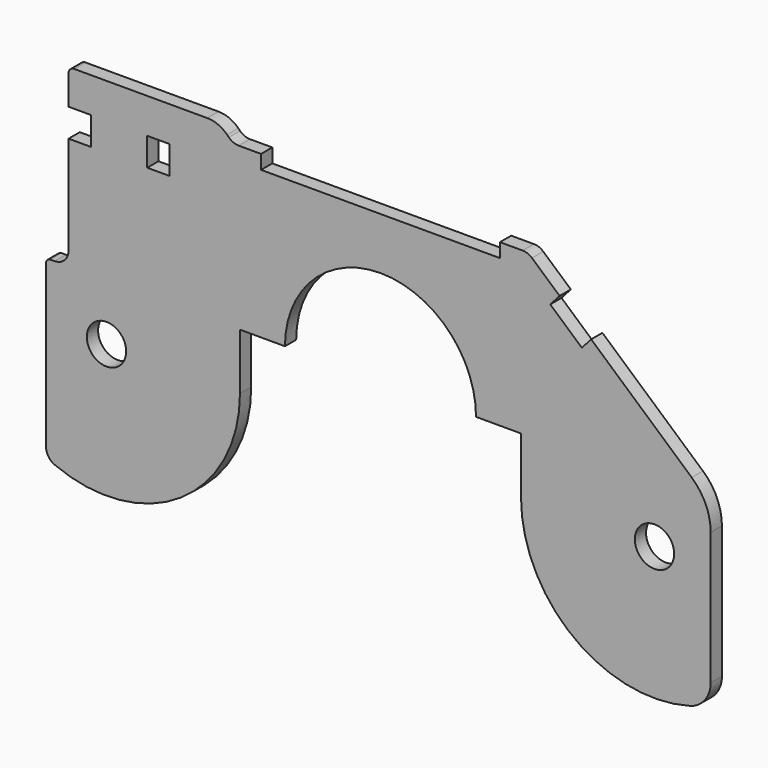
from build123d import *

# Parameters (mm, degrees)
F0_R     = 7
F0_W     = 8
F0_H     = 10
F1_DEPTH = 5


with BuildPart() as f1:
    # F0 (on Front) → F1 (new body)
    with BuildSketch(Plane.XZ):
        with BuildLine():
            ThreePointArc((-34, 0), (0, 34), (34, 0))
            Line((34, 0), (50, 0))
            Line((50, 0), (50, -20))
            ThreePointArc((50, -20), (68.737322, -57.801565), (110.166667, -65.779969))
            ThreePointArc((110.166667, -65.779969), (115.458224, -62.197381), (117.5, -56.142081))
            Line((117.5, -56.142081), (117.5, -9.010085))
            ThreePointArc((117.5, -9.010085), (115.734988, -0.795146), (110.751478, 5.969847))
            Line((110.751478, 5.969847), (74.969897, 37.622784))
            Line((74.969897, 37.622784), (71.657027, 33.877801))
            Line((71.657027, 33.877801), (60.422079, 43.816409))
            Line((60.422079, 43.816409), (63.734948, 47.561392))
            Line((63.734948, 47.561392), (53.918715, 56.244983))
            ThreePointArc((53.918715, 56.244983), (52.377157, 57.175731), (50.605846, 57.5))
            Line((50.605846, 57.5), (42.5, 57.5))
            Line((42.5, 57.5), (42.5, 52.5))
            Line((42.5, 52.5), (-42.5, 52.5))
            Line((-42.5, 52.5), (-42.5, 57.5))
            Line((-42.5, 57.5), (-50.428932, 57.5))
            ThreePointArc((-50.428932, 57.5), (-52.342349, 57.880602), (-53.964466, 58.964466))
            Line((-53.964466, 58.964466), (-54.571068, 59.571068))
            ThreePointArc((-54.571068, 59.571068), (-57.815301, 61.738795), (-61.642136, 62.5))
            Line((-61.642136, 62.5), (-109, 62.5))
            ThreePointArc((-109, 62.5), (-110.414214, 61.914214), (-111, 60.5))
            Line((-111, 60.5), (-111, 50))
            Line((-111, 50), (-103, 50))
            Line((-103, 50), (-103, 40))
            Line((-103, 40), (-111, 40))
            Line((-111, 40), (-111, 5))
            ThreePointArc((-111, 5), (-112.464466, 1.464466), (-116, 0))
            Line((-116, 0), (-117.5, 0))
            ThreePointArc((-117.5, 0), (-118.56066, -0.43934), (-119, -1.5))
            Line((-119, -1.5), (-119, -59.166312))
            ThreePointArc((-119, -59.166312), (-118.165686, -61.931644), (-115.941176, -63.774113))
            ThreePointArc((-115.941176, -63.774113), (-71.22935, -59.574019), (-50, -20))
            Line((-50, -20), (-50, 0))
            Line((-50, 0), (-34, 0))
        make_face()
        with Locations((-97.5, -20)):
            Circle(F0_R, mode=Mode.SUBTRACT)
        with Locations((97.5, -20)):
            Circle(F0_R, mode=Mode.SUBTRACT)
        with Locations((-79, 45)):
            Rectangle(F0_W, F0_H, mode=Mode.SUBTRACT)
    extrude(amount=F1_DEPTH)


solid = f1.part
